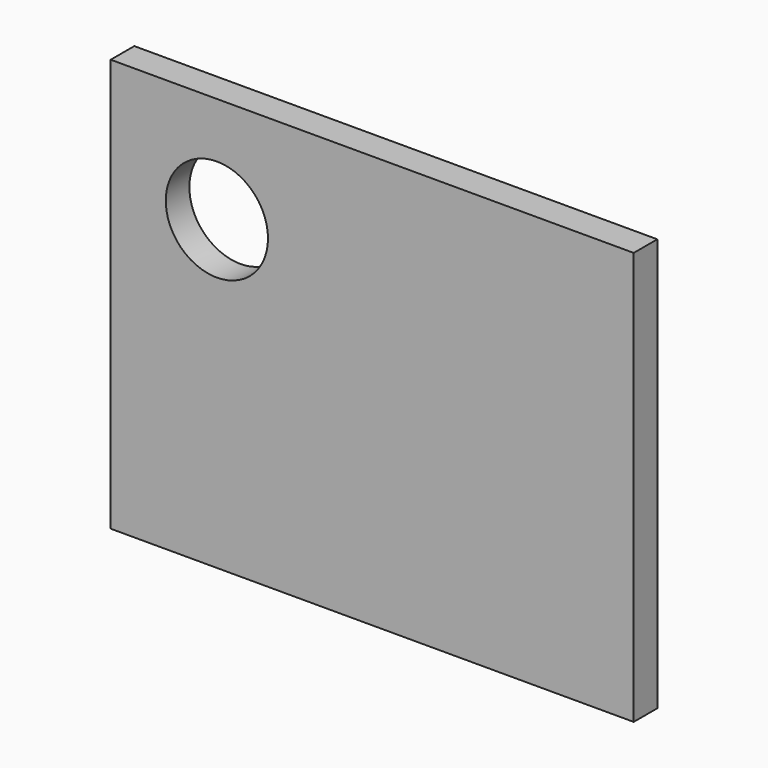
from build123d import *

# Parameters (mm, degrees)
F1_DEPTH = 0.375
F2_W     = 3
F2_H     = 3
F3_DEPTH = 1


with BuildPart() as f1:
    # F0 (on Front) → F1 (new body, symmetric)
    with BuildSketch(Plane.XZ):
        Polygon((6.65, -5.25), (6.65, 5.25), (-3.95, 5.25), (-6.65, 5.25), (-6.65, -5.25), align=None)
        with BuildLine():
            ThreePointArc((-2.65, 2.55), (-4.869239, 1.630761), (-3.95, 3.85))
            ThreePointArc((-3.95, 3.85), (-3.030761, 3.469239), (-2.65, 2.55))
        make_face(mode=Mode.SUBTRACT)
    extrude(amount=F1_DEPTH, both=True)

    # F2 (on face) → F3 (join)
    with BuildSketch(Plane(origin=(0, 0.375, 0), x_dir=(-1, 0, 0), z_dir=(0, 1, 0))):
        with Locations((3.85, -2.25)):
            Rectangle(F2_W, F2_H)
    extrude(amount=F3_DEPTH)


solid = f1.part
